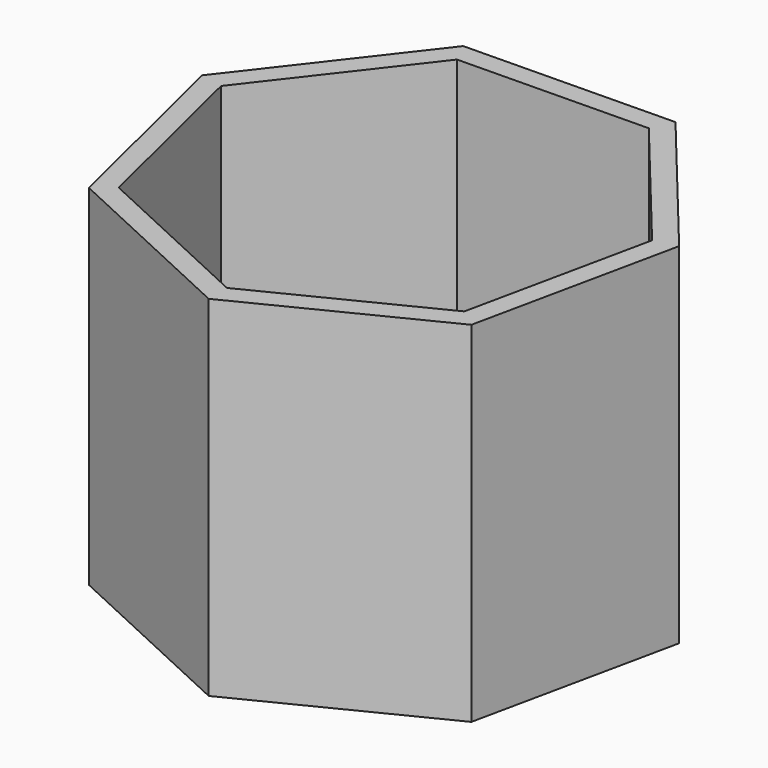
from build123d import *

# Parameters (mm, degrees)
F1_DEPTH = 127
F2_T     = -7.62


with BuildPart() as f1:
    # F0 (on Top) → F1 (new body)
    with BuildSketch(Plane.XY):
        Polygon((-39.284959, 78.533807), (-85.893974, 18.25081), (-67.823074, -55.775419), (1.319984, -87.80162), (69.469067, -53.71141), (85.306526, 20.824587), (36.906431, 79.679246), align=None)
    extrude(amount=F1_DEPTH)

    # F2
    f2_openings = [f1.faces().sort_by_distance(p)[0] for p in [
        (0, 0, 127),
    ]]
    offset(amount=F2_T, openings=f2_openings)


solid = f1.part
